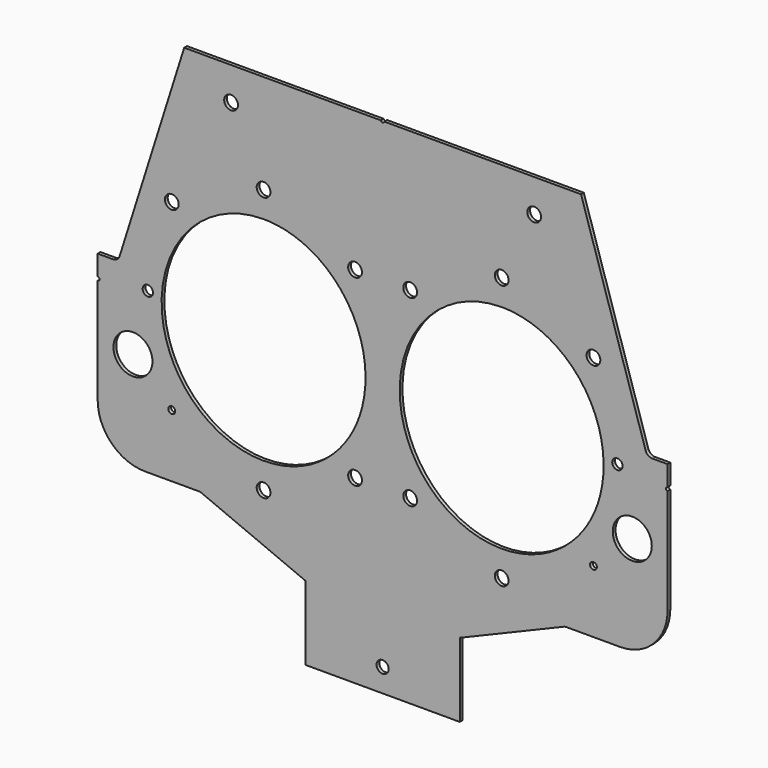
from build123d import *

# Parameters (mm, degrees)
F2_DEPTH = 1.6002
F1_R     = 8.9916
F1_R_2   = 3.175
F1_R_3   = 1.5875
F1_R_4   = 2.778125
F1_R_5   = 2.38125
F1_R_6   = 0.8001
F3_DEPTH = 1.6002
F4_R     = 3.175
F5_DEPTH = 4.1402


with BuildPart() as f2:
    # F0 (on Front) → F2 (new body)
    with BuildSketch(Plane.XZ):
        with BuildLine():
            Line((91.44, 106.68), (0, 106.68))
            Line((0, 106.68), (-91.44, 106.68))
            Line((-91.44, 106.68), (-121.219292, 12.378908))
            ThreePointArc((-121.219292, 12.378908), (-122.37008, 10.77412), (-124.246917, 10.16))
            Line((-124.246917, 10.16), (-131.318, 10.16))
            Line((-131.318, 10.16), (-131.318, -49.276))
            ThreePointArc((-131.318, -49.276), (-124.920041, -64.722041), (-109.474, -71.12))
            Line((-109.474, -71.12), (-84.712067, -71.12))
            ThreePointArc((-84.712067, -71.12), (-84.086507, -71.182236), (-83.485472, -71.366504))
            Line((-83.485472, -71.366504), (-35.56, -91.44))
            Line((-35.56, -91.44), (-35.56, -125.57125))
            Line((-35.56, -125.57125), (0, -125.57125))
            Line((0, -125.57125), (35.56, -125.57125))
            Line((35.56, -125.57125), (35.56, -91.44))
            Line((35.56, -91.44), (83.485472, -71.366504))
            ThreePointArc((83.485472, -71.366504), (84.086507, -71.182236), (84.712067, -71.12))
            Line((84.712067, -71.12), (109.474, -71.12))
            ThreePointArc((109.474, -71.12), (124.920041, -64.722041), (131.318, -49.276))
            Line((131.318, -49.276), (131.318, 10.16))
            Line((131.318, 10.16), (124.246917, 10.16))
            ThreePointArc((124.246917, 10.16), (122.37008, 10.77412), (121.219292, 12.378908))
            Line((121.219292, 12.378908), (91.44, 106.68))
        make_face()
    extrude(amount=F2_DEPTH)

    # F1 (on Front) → F3 (cut)
    with BuildSketch(Plane.XZ):
        with Locations((-115.062, -25.4)):
            Circle(F1_R)
        with Locations((-69.85, 91.44)):
            Circle(F1_R_2)
        with Locations((-97.155, 42.2275)):
            Circle(F1_R_2)
        with Locations((-97.155, -42.2275)):
            Circle(F1_R_3)
        with Locations((-12.7, 42.2275)):
            Circle(F1_R_2)
        with Locations((-12.7, -42.2275)):
            Circle(F1_R_2)
        with Locations((0, -114.808)):
            Circle(F1_R_4)
        with Locations((-108.204, 2.6162)):
            Circle(F1_R_5)
        with Locations((97.155, -42.2275)):
            Circle(F1_R_3)
        with Locations((108.204, 2.6162)):
            Circle(F1_R_5)
        with Locations((69.85, 91.44)):
            Circle(F1_R_2)
        with Locations((12.7, -42.2275)):
            Circle(F1_R_2)
        with Locations((97.155, 42.2275)):
            Circle(F1_R_2)
        with Locations((12.7, 42.2275)):
            Circle(F1_R_2)
        with Locations((115.062, -25.4)):
            Circle(F1_R)
        with Locations((0, 106.839679)):
            Circle(F1_R_6)
        with Locations((-131.242454, 0)):
            Circle(F1_R_6)
        with Locations((131.352454, 0)):
            Circle(F1_R_6)
        with BuildLine():
            add(Edge.make_bspline(
                [(54.864, 49.022), (-26.525067, 49.022), (14.169466, -24.511), (54.864, -98.044), (95.558534, -24.511), (136.253067, 49.022), (54.864, 49.022)],
                knots=[0, 0, 0, 2.094395, 2.094395, 4.18879, 4.18879, 6.283185, 6.283185, 6.283185], degree=2, weights=[1, 0.5, 1, 0.5, 1, 0.5, 1]))
        make_face()
        with BuildLine():
            add(Edge.make_bspline(
                [(-54.864, 49.022), (-136.253067, 49.022), (-95.558534, -24.511), (-54.864, -98.044), (-14.169466, -24.511), (26.525067, 49.022), (-54.864, 49.022)],
                knots=[0, 0, 0, 2.094395, 2.094395, 4.18879, 4.18879, 6.283185, 6.283185, 6.283185], degree=2, weights=[1, 0.5, 1, 0.5, 1, 0.5, 1]))
        make_face()
    extrude(amount=F3_DEPTH, mode=Mode.SUBTRACT)

    # F4 (on face) → F5 (cut)
    with BuildSketch(Plane.XZ):
        with Locations((-54.864, 60.96)):
            Circle(F4_R)
        with Locations((-54.864, -60.96)):
            Circle(F4_R)
        with Locations((54.864, -60.96)):
            Circle(F4_R)
        with Locations((54.864, 60.96)):
            Circle(F4_R)
    extrude(amount=F5_DEPTH, mode=Mode.SUBTRACT)


solid = f2.part
